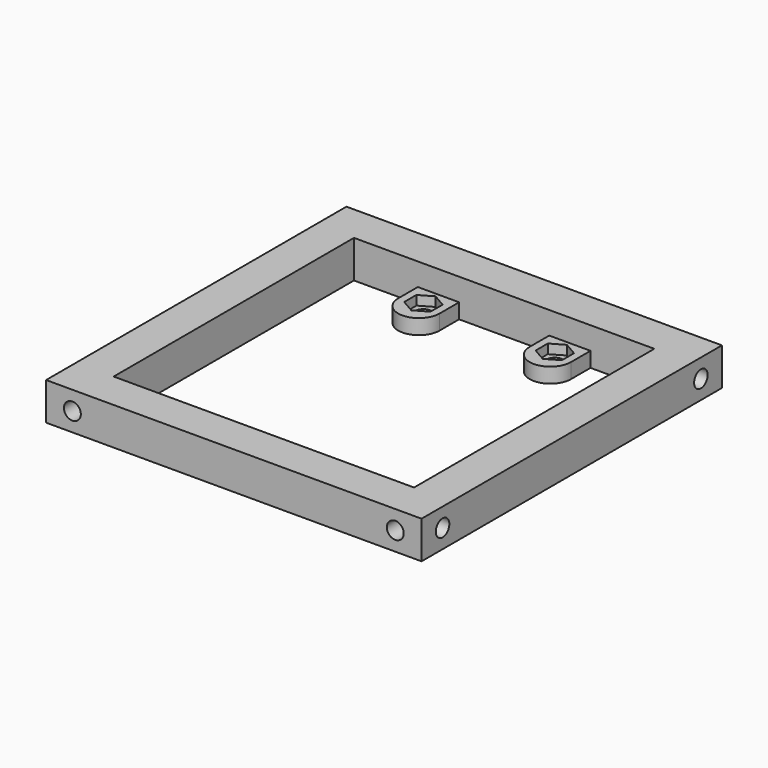
from build123d import *

# Parameters (mm, degrees)
SKETCH081_W           = 100
SKETCH081_H           = 100
SKETCH081_W_2         = 80
SKETCH081_H_2         = 80
PAD032_DEPTH          = 10
SKETCH083_R           = 2.25
POCKET051_DEPTH       = 6
POLARPATTERN002_COUNT = 4
SKETCH082_R           = 2.25
POCKET050_DEPTH       = 6
POLARPATTERN003_COUNT = 4
SKETCH084_R           = 2.25
POCKET049_DEPTH       = 6
SKETCH098_R           = 2.2
PAD037_DEPTH          = 4
POCKET061_DEPTH       = 2.5


with BuildPart() as part:
    # Sketch081 → Pad032 (new body)
    with BuildSketch(Plane.XY):
        Rectangle(SKETCH081_W, SKETCH081_H)
        Rectangle(SKETCH081_W_2, SKETCH081_H_2, mode=Mode.SUBTRACT)
    extrude(amount=PAD032_DEPTH)

    # Sketch083 → Pocket051 (cut)
    with BuildSketch(Plane.XZ.offset(50)):
        with Locations((-43, 5)):
            Circle(SKETCH083_R)
    pocket051 = extrude(amount=-POCKET051_DEPTH, mode=Mode.SUBTRACT)

    # PolarPattern002: Pocket051 ×4 about axis
    polarpattern002_axis = Axis((0, 0, 0), (0, 0, 1))
    for i in range(1, POLARPATTERN002_COUNT):
        add(pocket051.rotate(polarpattern002_axis, i * 360 / POLARPATTERN002_COUNT), mode=Mode.SUBTRACT)

    # Sketch082 (on Face2 of PolarPattern002) → Pocket050 (cut)
    with BuildSketch(Plane(origin=(-50, 0, 0), x_dir=(0, -1, 0), z_dir=(-1, 0, 0))):
        with Locations((43, 5)):
            Circle(SKETCH082_R)
    pocket050 = extrude(amount=-POCKET050_DEPTH, mode=Mode.SUBTRACT)

    # PolarPattern003: Pocket050 ×4 about axis
    polarpattern003_axis = Axis((0, 0, 0), (0, 0, 1))
    for i in range(1, POLARPATTERN003_COUNT):
        add(pocket050.rotate(polarpattern003_axis, i * 360 / POLARPATTERN003_COUNT), mode=Mode.SUBTRACT)

    # Sketch084 (on Face1 of PolarPattern003) → Pocket049 (cut)
    with BuildSketch(Plane(origin=(0, 50, 0), x_dir=(-1, 0, 0), z_dir=(0, 1, 0))):
        with Locations((-15, 5)):
            Circle(SKETCH084_R)
    pocket049 = extrude(amount=-POCKET049_DEPTH, mode=Mode.SUBTRACT)

    # Mirrored003: Pocket049 across Sketch084 V_Axis
    add(pocket049.mirror(Plane(origin=(0, 50, 0), x_dir=(0, 1, 0), z_dir=(-1, 0, 0))), mode=Mode.SUBTRACT)

    # Sketch098 (on Face3 of Mirrored003) → Pad037 (join)
    with BuildSketch(Plane(origin=(0, 0, 0), x_dir=(1, 0, 0), z_dir=(0, 0, -1))):
        with BuildLine():
            Line((-23, -40), (-23, -33.5))
            ThreePointArc((-12, -33.5), (-17.5, -28), (-23, -33.5))
            Line((-12, -40), (-12, -33.5))
            Line((-23, -40), (-12, -40))
        make_face()
        with Locations((-17.5, -35)):
            Circle(SKETCH098_R, mode=Mode.SUBTRACT)
    pad037 = extrude(amount=-PAD037_DEPTH)

    # Sketch099 (on Face29 of Pad037) → Pocket061 (cut)
    with BuildSketch(Plane.XY.offset(4)):
        Polygon((-14, 37.020726), (-17.5, 39.041452), (-21, 37.020726), (-21, 32.979274), (-17.5, 30.958548), (-14, 32.979274), align=None)
    pocket061 = extrude(amount=-POCKET061_DEPTH, mode=Mode.SUBTRACT)

    # Mirrored006: Pad037, Pocket061 across Sketch098 V_Axis
    add(pad037.mirror(Plane(origin=(0, 0, 0), x_dir=(0, 0, -1), z_dir=(1, 0, 0))))
    add(pocket061.mirror(Plane(origin=(0, 0, 0), x_dir=(0, 0, -1), z_dir=(1, 0, 0))), mode=Mode.SUBTRACT)


with BuildPart() as part_1:
    # Body011 placement: moved
    add(part.part.moved(Location((0, 0, -10))))


solid = part_1.part
